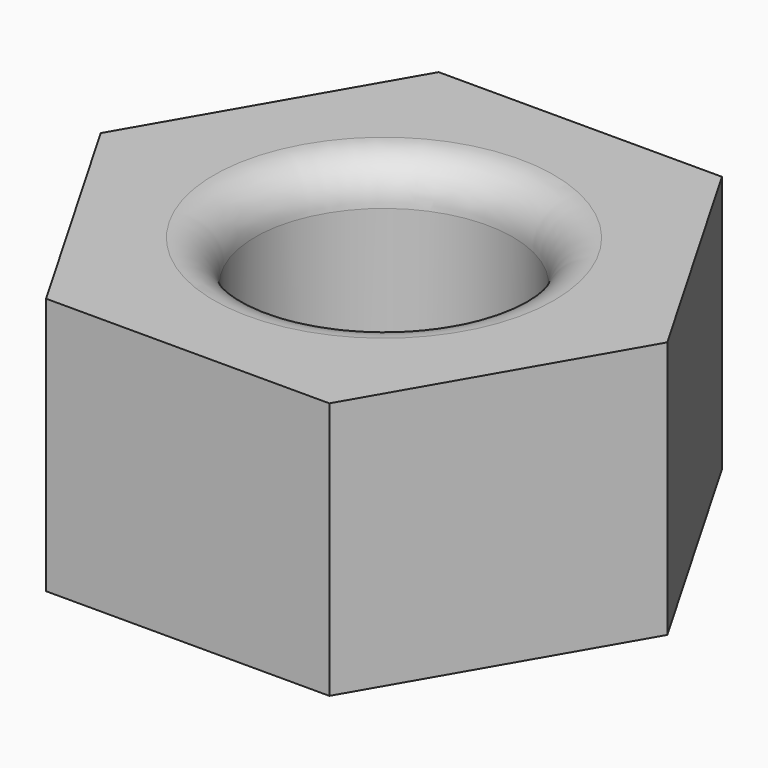
from build123d import *

# Parameters (mm, degrees)
F0_R     = 1.25
F1_DEPTH = 2.5
F2_R     = 0.4
F3_R     = 0.4


with BuildPart() as f1:
    # F0 (on Top) → F1 (new body)
    with BuildSketch(Plane.XY):
        Polygon((1.375, 2.38157), (-1.375, 2.38157), (-2.75, 0), (-1.375, -2.38157), (1.375, -2.38157), (2.75, 0), align=None)
        Circle(F0_R, mode=Mode.SUBTRACT)
    extrude(amount=F1_DEPTH)

    # F2
    f2_edges = [f1.edges().sort_by_distance(p)[0] for p in [
        (-1.25, 0, 0),
    ]]
    fillet(f2_edges, radius=F2_R)

    # F3
    f3_edges = [f1.edges().sort_by_distance(p)[0] for p in [
        (-1.25, 0, 2.5),
    ]]
    fillet(f3_edges, radius=F3_R)


solid = f1.part
